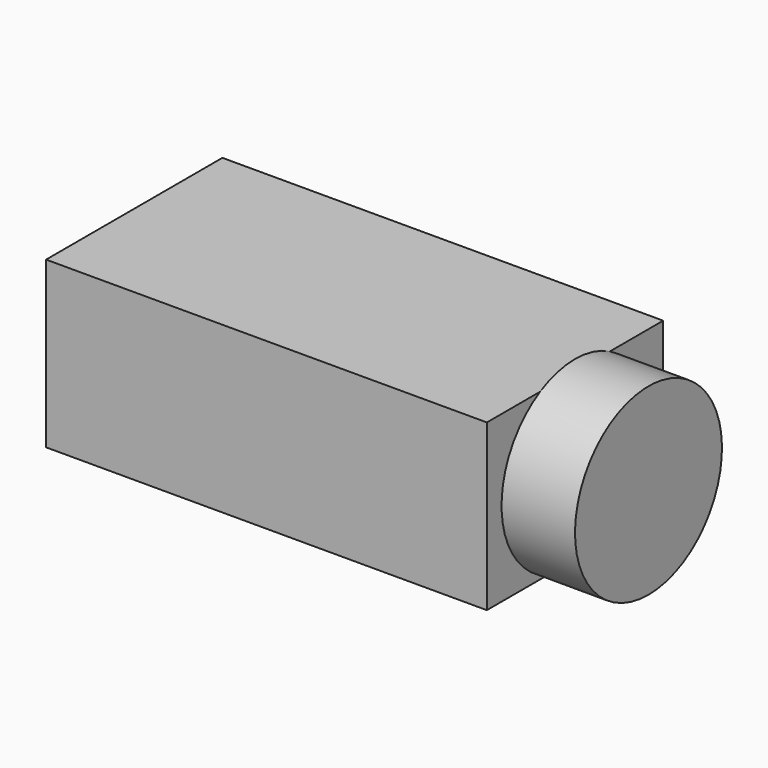
from build123d import *

# Parameters (mm, degrees)
BOX018_W                = 12
BOX018_H                = 6
BOX018_DEPTH            = 4.5
CYLINDER020_R           = 2.5
CYLINDER020_DEPTH       = 2
CYLINDER020_PITCH_ANGLE = 90


with BuildPart() as obj1:
    # Box018 → Box018 (new body)
    with BuildSketch(Plane.XY.offset(18)):
        with Locations((6, 3)):
            Rectangle(BOX018_W, BOX018_H)
    extrude(amount=BOX018_DEPTH)


with BuildPart() as audio_jack001:
    # Cylinder020 → Cylinder020 (new body)
    with BuildSketch(Plane.XY):
        Circle(CYLINDER020_R)
    extrude(amount=CYLINDER020_DEPTH)


with BuildPart() as audio_jack001_1:
    # Cylinder020 pitch: moved
    add(audio_jack001.part.rotate(Axis((0, 0, 0), (0, 1, 0)), CYLINDER020_PITCH_ANGLE))


with BuildPart() as audio_jack001_2:
    # Cylinder020 placement: moved
    add(audio_jack001_1.part.moved(Location((12, 3, 20.3))))

    # Fusion011: union obj1
    add(obj1.part)


with BuildPart() as audio_jack001_3:
    # Fusion011 placement: moved
    add(audio_jack001_2.part.moved(Location((8, 1.6, -10.5))))


solid = audio_jack001_3.part
